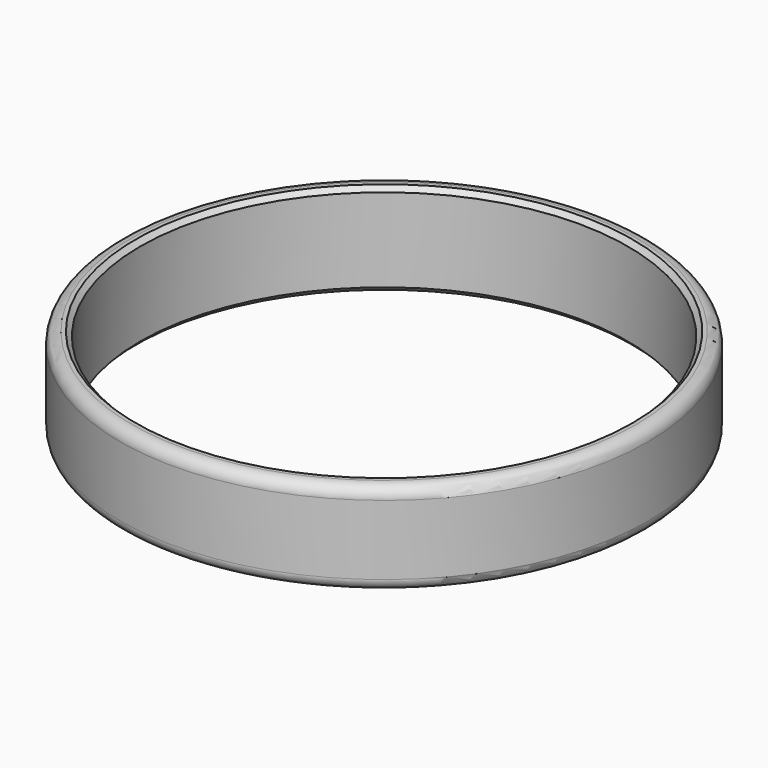
from build123d import *

# Parameters (mm, degrees)
F0_R     = 11.365202
F0_R_2   = 10.5
F1_DEPTH = 4
F2_R     = 0.5
F3_SIZE  = 0.2


with BuildPart() as f1:
    # F0 (on Top) → F1 (new body)
    with BuildSketch(Plane.XY):
        Circle(F0_R)
        Circle(F0_R_2, mode=Mode.SUBTRACT)
    extrude(amount=F1_DEPTH)

    # F2
    f2_edges = [f1.edges().sort_by_distance(p)[0] for p in [
        (-11.365202, 0, 0),
        (-11.365202, 0, 4),
    ]]
    fillet(f2_edges, radius=F2_R)

    # F3
    f3_edges = [f1.edges().sort_by_distance(p)[0] for p in [
        (-10.5, 0, 0),
        (-10.5, 0, 4),
    ]]
    chamfer(f3_edges, length=F3_SIZE)


solid = f1.part
